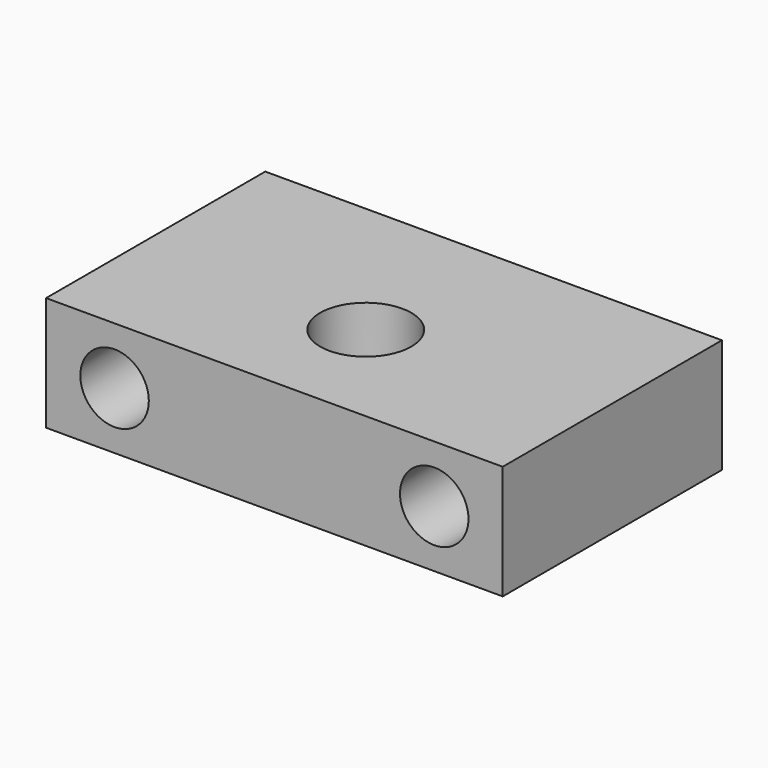
from build123d import *

# Parameters (mm, degrees)
SKETCH_W     = 20
SKETCH_H     = 12
SKETCH_R     = 2
PAD_DEPTH    = 5
SKETCH001_R  = 1.5
POCKET_DEPTH = 12.001


with BuildPart() as part:
    # Sketch → Pad (new body)
    with BuildSketch(Plane.XY):
        with Locations((10, 6)):
            Rectangle(SKETCH_W, SKETCH_H)
        with Locations((10, 5)):
            Circle(SKETCH_R, mode=Mode.SUBTRACT)
    extrude(amount=PAD_DEPTH)

    # Sketch001 → Pocket (cut, through all)
    with BuildSketch(Plane.XZ):
        with Locations((3, 2.5)):
            Circle(SKETCH001_R)
        with Locations((17, 2.5)):
            Circle(SKETCH001_R)
    extrude(amount=-POCKET_DEPTH, mode=Mode.SUBTRACT)


solid = part.part
